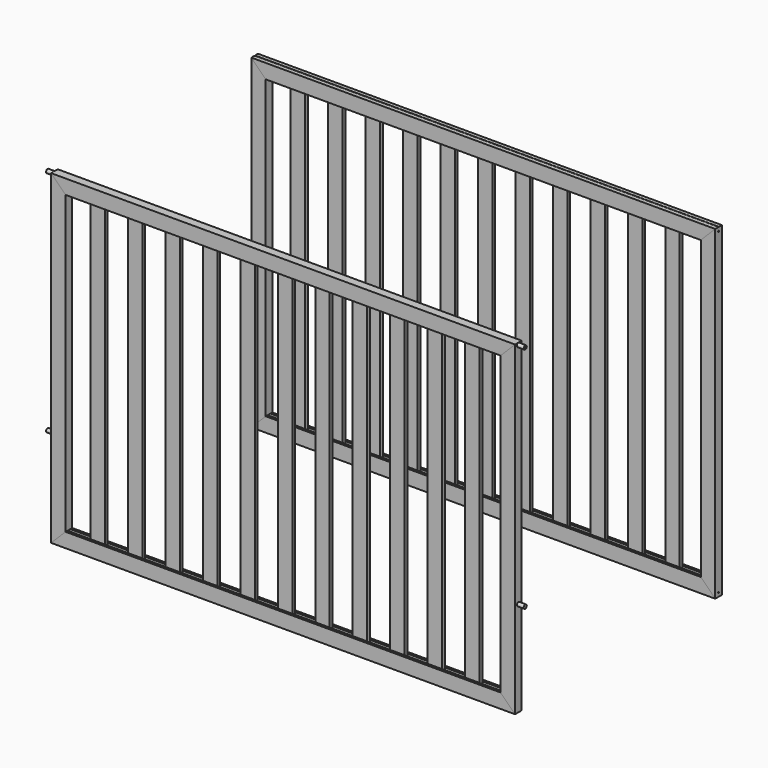
from build123d import *

# Parameters (mm, degrees)
F1_DEPTH  = 1220
F3_DEPTH  = 350
F4_DEPTH  = 22
F5_W      = 38
F5_H      = 9
F6_DEPTH  = 796
F9_R      = 1.5
F10_DEPTH = 1220.001
F11_R     = 5
F12_DEPTH = 18
F16_R     = 2
F17_DEPTH = 1256


with BuildPart() as f1:
    # F0 (on Right) → F1 (new body)
    with BuildSketch(Plane.YZ):
        Polygon((340, 428), (318, 428), (318, 390), (324.5, 390), (324.5, 398), (333.5, 398), (333.5, 390), (340, 390), align=None)
    extrude(amount=F1_DEPTH)


with BuildPart() as f1b:
    # F0 (on Right) → F1, piece 2 (new body)
    with BuildSketch(Plane.YZ):
        Polygon((324.5, -390), (318, -390), (318, -428), (340, -428), (340, -390), (333.5, -390), (333.5, -398), (324.5, -398), align=None)
    extrude(amount=F1_DEPTH)


with BuildPart() as f3_tool:
    # F2 (on face) → F3 (new body)
    with BuildSketch(Plane.XZ.offset(-318)):
        Polygon((0, 428), (0, -428), (38, -390), (38, 390), align=None)
        Polygon((1220, 428), (1182, 390), (1182, -390), (1220, -428), align=None)
    extrude(amount=-F3_DEPTH)


with BuildPart() as f1_1:
    add(f1.part)

    # F3: cut by f3_tool
    add(f3_tool.part, mode=Mode.SUBTRACT)


with BuildPart() as f1b_1:
    add(f1b.part)

    # F3: cut by f3_tool
    add(f3_tool.part, mode=Mode.SUBTRACT)


with BuildPart() as f4:
    # F2 (on face) → F4 (new body)
    with BuildSketch(Plane.XZ.offset(-318)):
        Polygon((0, 428), (0, -428), (38, -390), (38, 390), align=None)
    extrude(amount=-F4_DEPTH)


with BuildPart() as f4b:
    # F2 (on face) → F4, piece 2 (new body)
    with BuildSketch(Plane.XZ.offset(-318)):
        Polygon((1220, 428), (1182, 390), (1182, -390), (1220, -428), align=None)
    extrude(amount=-F4_DEPTH)


with BuildPart() as f6:
    # F5 (on face) → F6 (new body, through all)
    with BuildSketch(Plane.XY.offset(-398)):
        with Locations((117.5, 329)):
            Rectangle(F5_W, F5_H)
    extrude(amount=F6_DEPTH)


with BuildPart() as f6b:
    # F5 (on face) → F6, piece 2 (new body, through all)
    with BuildSketch(Plane.XY.offset(-398)):
        with Locations((216, 329)):
            Rectangle(F5_W, F5_H)
    extrude(amount=F6_DEPTH)


with BuildPart() as f6c:
    # F5 (on face) → F6, piece 3 (new body, through all)
    with BuildSketch(Plane.XY.offset(-398)):
        with Locations((314.5, 329)):
            Rectangle(F5_W, F5_H)
    extrude(amount=F6_DEPTH)


with BuildPart() as f6d:
    # F5 (on face) → F6, piece 4 (new body, through all)
    with BuildSketch(Plane.XY.offset(-398)):
        with Locations((413, 329)):
            Rectangle(F5_W, F5_H)
    extrude(amount=F6_DEPTH)


with BuildPart() as f6e:
    # F5 (on face) → F6, piece 5 (new body, through all)
    with BuildSketch(Plane.XY.offset(-398)):
        with Locations((511.5, 329)):
            Rectangle(F5_W, F5_H)
    extrude(amount=F6_DEPTH)


with BuildPart() as f6f:
    # F5 (on face) → F6, piece 6 (new body, through all)
    with BuildSketch(Plane.XY.offset(-398)):
        with Locations((610, 329)):
            Rectangle(F5_W, F5_H)
    extrude(amount=F6_DEPTH)


with BuildPart() as f6g:
    # F5 (on face) → F6, piece 7 (new body, through all)
    with BuildSketch(Plane.XY.offset(-398)):
        with Locations((708.5, 329)):
            Rectangle(F5_W, F5_H)
    extrude(amount=F6_DEPTH)


with BuildPart() as f6h:
    # F5 (on face) → F6, piece 8 (new body, through all)
    with BuildSketch(Plane.XY.offset(-398)):
        with Locations((807, 329)):
            Rectangle(F5_W, F5_H)
    extrude(amount=F6_DEPTH)


with BuildPart() as f6i:
    # F5 (on face) → F6, piece 9 (new body, through all)
    with BuildSketch(Plane.XY.offset(-398)):
        with Locations((905.5, 329)):
            Rectangle(F5_W, F5_H)
    extrude(amount=F6_DEPTH)


with BuildPart() as f6j:
    # F5 (on face) → F6, piece 10 (new body, through all)
    with BuildSketch(Plane.XY.offset(-398)):
        with Locations((1004, 329)):
            Rectangle(F5_W, F5_H)
    extrude(amount=F6_DEPTH)


with BuildPart() as f6k:
    # F5 (on face) → F6, piece 11 (new body, through all)
    with BuildSketch(Plane.XY.offset(-398)):
        with Locations((1102.5, 329)):
            Rectangle(F5_W, F5_H)
    extrude(amount=F6_DEPTH)


with BuildPart() as f8_1:
    # F8: instance of F4
    add(f4.part.mirror(Plane.XZ))


with BuildPart() as f8_2:
    # F8: instance of F4b
    add(f4b.part.mirror(Plane.XZ))


with BuildPart() as f8_3:
    # F8: instance of F6g
    add(f6g.part.mirror(Plane.XZ))


with BuildPart() as f8_4:
    # F8: instance of F6
    add(f6.part.mirror(Plane.XZ))


with BuildPart() as f8_5:
    # F8: instance of F6b
    add(f6b.part.mirror(Plane.XZ))


with BuildPart() as f8_6:
    # F8: instance of F6c
    add(f6c.part.mirror(Plane.XZ))


with BuildPart() as f8_7:
    # F8: instance of F6d
    add(f6d.part.mirror(Plane.XZ))


with BuildPart() as f8_8:
    # F8: instance of F6e
    add(f6e.part.mirror(Plane.XZ))


with BuildPart() as f8_9:
    # F8: instance of F6f
    add(f6f.part.mirror(Plane.XZ))


with BuildPart() as f8_10:
    # F8: instance of F6h
    add(f6h.part.mirror(Plane.XZ))


with BuildPart() as f8_11:
    # F8: instance of F6i
    add(f6i.part.mirror(Plane.XZ))


with BuildPart() as f8_12:
    # F8: instance of F6j
    add(f6j.part.mirror(Plane.XZ))


with BuildPart() as f8_13:
    # F8: instance of F6k
    add(f6k.part.mirror(Plane.XZ))


with BuildPart() as f8_14:
    # F8: instance of F1
    add(f1_1.part.mirror(Plane.XZ))


with BuildPart() as f8_15:
    # F8: instance of F1b
    add(f1b_1.part.mirror(Plane.XZ))


with BuildPart() as f10_tool:
    # F9 (on face) → F10 (new body, through all)
    with BuildSketch(Plane(origin=(0, 0, 0), x_dir=(0, -1, 0), z_dir=(-1, 0, 0))):
        with Locations((-329, 429)):
            Circle(F9_R)
        with Locations((-329, 418)):
            Circle(F9_R)
        with Locations((-329, -418)):
            Circle(F9_R)
        with Locations((-329, -429)):
            Circle(F9_R)
    extrude(amount=-F10_DEPTH)


with BuildPart() as f1_2:
    add(f1_1.part)

    # F10: cut by f10_tool
    add(f10_tool.part, mode=Mode.SUBTRACT)


with BuildPart() as f1b_2:
    add(f1b_1.part)

    # F10: cut by f10_tool
    add(f10_tool.part, mode=Mode.SUBTRACT)


with BuildPart() as f4_1:
    add(f4.part)

    # F10: cut by f10_tool
    add(f10_tool.part, mode=Mode.SUBTRACT)


with BuildPart() as f4b_1:
    add(f4b.part)

    # F10: cut by f10_tool
    add(f10_tool.part, mode=Mode.SUBTRACT)


with BuildPart() as f12:
    # F11 (on face) → F12 (new body)
    with BuildSketch(Plane(origin=(0, 0, 0), x_dir=(0, -1, 0), z_dir=(-1, 0, 0))):
        with Locations((329, 422.5)):
            Circle(F11_R)
    extrude(amount=F12_DEPTH)


with BuildPart() as f12b:
    # F11 (on face) → F12, piece 2 (new body)
    with BuildSketch(Plane(origin=(0, 0, 0), x_dir=(0, -1, 0), z_dir=(-1, 0, 0))):
        with Locations((329, -177.5)):
            Circle(F11_R)
    extrude(amount=F12_DEPTH)


with BuildPart() as f15_1:
    # F15: instance of F12
    add(f12.part.mirror(Plane(origin=(610, -329, 0), x_dir=(0, -1, 0), z_dir=(-1, 0, 0))))


with BuildPart() as f15_2:
    # F15: instance of F12b
    add(f12b.part.mirror(Plane(origin=(610, -329, 0), x_dir=(0, -1, 0), z_dir=(-1, 0, 0))))


with BuildPart() as f17_tool:
    # F16 (on face) → F17 (new body, through all)
    with BuildSketch(Plane(origin=(-18, 0, 0), x_dir=(0, -1, 0), z_dir=(-1, 0, 0))):
        with Locations((329, 422.5)):
            Circle(F16_R)
    extrude(amount=-F17_DEPTH)


with BuildPart() as f8_1_1:
    add(f8_1.part)

    # F17: cut by f17_tool
    add(f17_tool.part, mode=Mode.SUBTRACT)


with BuildPart() as f8_2_1:
    add(f8_2.part)

    # F17: cut by f17_tool
    add(f17_tool.part, mode=Mode.SUBTRACT)


with BuildPart() as f8_14_1:
    add(f8_14.part)

    # F17: cut by f17_tool
    add(f17_tool.part, mode=Mode.SUBTRACT)


with BuildPart() as f12_1:
    add(f12.part)

    # F17: cut by f17_tool
    add(f17_tool.part, mode=Mode.SUBTRACT)


with BuildPart() as f15_1_1:
    add(f15_1.part)

    # F17: cut by f17_tool
    add(f17_tool.part, mode=Mode.SUBTRACT)


solid = Compound([f6.part, f6b.part, f6c.part, f6d.part, f6e.part, f6f.part, f6g.part, f6h.part, f6i.part, f6j.part, f6k.part, f8_3.part, f8_4.part, f8_5.part, f8_6.part, f8_7.part, f8_8.part, f8_9.part, f8_10.part, f8_11.part, f8_12.part, f8_13.part, f8_15.part, f1_2.part, f1b_2.part, f4_1.part, f4b_1.part, f12b.part, f15_2.part, f8_1_1.part, f8_2_1.part, f8_14_1.part, f12_1.part, f15_1_1.part])
